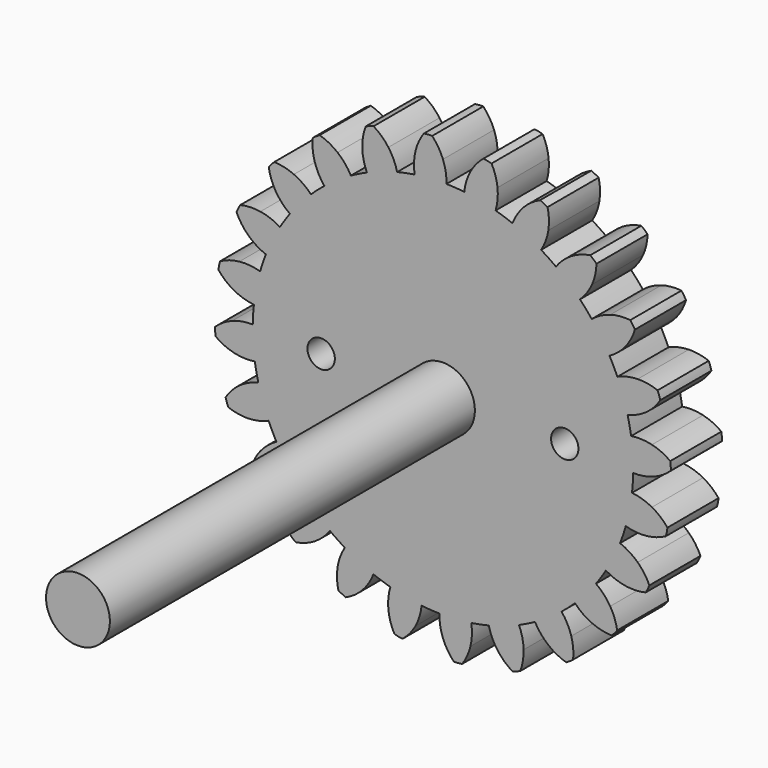
from build123d import *

# Parameters (mm, degrees)
F1_DEPTH = 7
F2_COUNT = 24
F2_ANGLE = 345
F3_R     = 3.5
F4_DEPTH = 50
F3_R_2   = 1.5
F5_DEPTH = 7


with BuildPart() as f1:
    # F0 (on Front) → F1 (new body)
    with BuildSketch(Plane.XZ):
        with BuildLine():
            ThreePointArc((-3.102763, 20.617841), (-13.60202, -15.802138), (20.85, 0))
            ThreePointArc((20.85, 0), (14.878689, 14.606406), (0.38505, 20.846444))
            ThreePointArc((0.38505, 20.846444), (-1.363655, 20.805359), (-3.102763, 20.617841))
        make_face()
        with BuildLine():
            ThreePointArc((-3.102763, 20.617841), (-1.363655, 20.805359), (0.38505, 20.846444))
            ThreePointArc((0.38505, 20.846444), (0.304156, 21.992296), (0, 23.1))
            ThreePointArc((0, 23.1), (-0.498674, 24.094224), (-1.181734, 24.972054))
            ThreePointArc((-1.181734, 24.972054), (-1.635982, 24.960264), (-2.087883, 24.912662))
            ThreePointArc((-2.087883, 24.912662), (-2.650519, 23.953185), (-3.015155, 22.902376))
            ThreePointArc((-3.015155, 22.902376), (-3.172125, 21.764448), (-3.102763, 20.617841))
        make_face()
    extrude(amount=F1_DEPTH)

    # F2: F1 ×24 about axis
    f2_axis = Axis((0, 0, 0), (0, 1, 0))


with BuildPart() as f1_1:
    add(f1.part)
    for i in range(1, F2_COUNT):
        add(f1.part.rotate(f2_axis, i * F2_ANGLE / (F2_COUNT - 1)))

    # F3 (on face) → F4 (join)
    with BuildSketch(Plane.XZ.offset(7)):
        Circle(F3_R)
    extrude(amount=F4_DEPTH)

    # F3 (on face) → F5 (cut, through all)
    with BuildSketch(Plane.XZ.offset(7)):
        with Locations((13.348683, 0)):
            Circle(F3_R_2)
        with Locations((-13.348683, 0)):
            Circle(F3_R_2)
    extrude(amount=-F5_DEPTH, mode=Mode.SUBTRACT)


solid = f1_1.part
